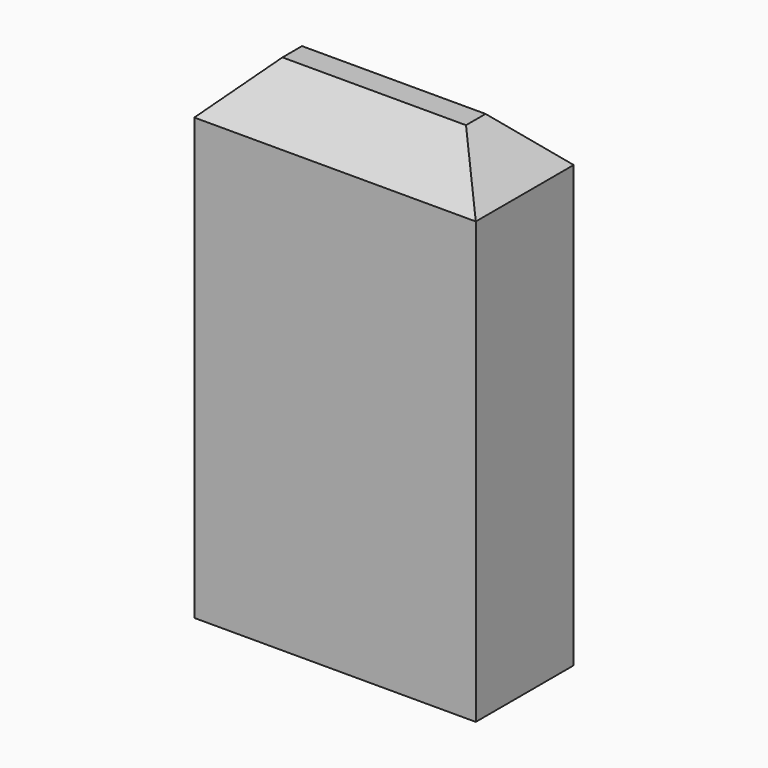
from build123d import *

# Parameters (mm, degrees)
F0_W     = 14.605
F0_H     = 6.35
F1_DEPTH = 25.4
F2_SIZE  = 2.54


with BuildPart() as f1:
    # F0 (on Top) → F1 (new body)
    with BuildSketch(Plane.XY):
        Rectangle(F0_W, F0_H)
    extrude(amount=F1_DEPTH)

    # F2
    f2_edges = [f1.edges().sort_by_distance(p)[0] for p in [
        (0, -3.175, 25.4),
        (0, 3.175, 25.4),
        (-7.3025, 0, 25.4),
        (7.3025, 0, 25.4),
    ]]
    chamfer(f2_edges, length=F2_SIZE)


solid = f1.part
